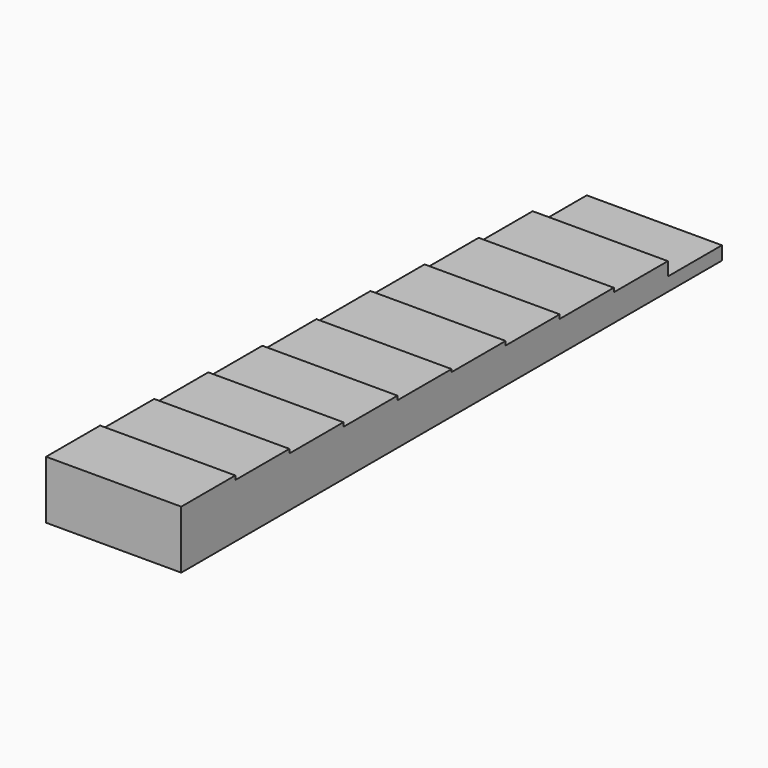
from build123d import *

# Parameters (mm, degrees)
F0_W      = 5
F0_H      = 5
F1_DEPTH  = 1
F2_DEPTH  = 2
F3_DEPTH  = 2.3
F4_DEPTH  = 2.6
F5_DEPTH  = 2.9
F6_DEPTH  = 3.1
F7_DEPTH  = 3.4
F8_DEPTH  = 3.7
F9_DEPTH  = 4
F10_DEPTH = 4.3


with BuildPart() as f1:
    # F0 (on Top) → F1 (new body)
    with BuildSketch(Plane.XY):
        with Locations((-3.713795, 34.692926)):
            Rectangle(F0_W, F0_H)
        with Locations((1.286205, 34.692926)):
            Rectangle(F0_W, F0_H)
    extrude(amount=F1_DEPTH)

    # F0 (on Top) → F2 (join)
    with BuildSketch(Plane.XY):
        with Locations((-3.713795, 29.692926)):
            Rectangle(F0_W, F0_H)
        with Locations((1.286205, 29.692926)):
            Rectangle(F0_W, F0_H)
    extrude(amount=F2_DEPTH)

    # F0 (on Top) → F3 (join)
    with BuildSketch(Plane.XY):
        with Locations((-3.713795, 24.692926)):
            Rectangle(F0_W, F0_H)
        with Locations((1.286205, 24.692926)):
            Rectangle(F0_W, F0_H)
    extrude(amount=F3_DEPTH)

    # F0 (on Top) → F4 (join)
    with BuildSketch(Plane.XY):
        with Locations((1.286205, 19.692926)):
            Rectangle(F0_W, F0_H)
        with Locations((-3.713795, 19.692926)):
            Rectangle(F0_W, F0_H)
    extrude(amount=F4_DEPTH)

    # F0 (on Top) → F5 (join)
    with BuildSketch(Plane.XY):
        with Locations((-3.713795, 14.692926)):
            Rectangle(F0_W, F0_H)
        with Locations((1.286205, 14.692926)):
            Rectangle(F0_W, F0_H)
    extrude(amount=F5_DEPTH)

    # F0 (on Top) → F6 (join)
    with BuildSketch(Plane.XY):
        with Locations((-3.713795, 9.692926)):
            Rectangle(F0_W, F0_H)
        with Locations((1.286205, 9.692926)):
            Rectangle(F0_W, F0_H)
    extrude(amount=F6_DEPTH)

    # F0 (on Top) → F7 (join)
    with BuildSketch(Plane.XY):
        with Locations((-3.713795, 4.692926)):
            Rectangle(F0_W, F0_H)
        with Locations((1.286205, 4.692926)):
            Rectangle(F0_W, F0_H)
    extrude(amount=F7_DEPTH)

    # F0 (on Top) → F8 (join)
    with BuildSketch(Plane.XY):
        with Locations((-3.713795, -0.307074)):
            Rectangle(F0_W, F0_H)
        with Locations((1.286205, -0.307074)):
            Rectangle(F0_W, F0_H)
    extrude(amount=F8_DEPTH)

    # F0 (on Top) → F9 (join)
    with BuildSketch(Plane.XY):
        with Locations((-3.713795, -5.307074)):
            Rectangle(F0_W, F0_H)
        with Locations((1.286205, -5.307074)):
            Rectangle(F0_W, F0_H)
    extrude(amount=F9_DEPTH)

    # F0 (on Top) → F10 (join)
    with BuildSketch(Plane.XY):
        with Locations((-3.713795, -10.307074)):
            Rectangle(F0_W, F0_H)
        with Locations((1.286205, -10.307074)):
            Rectangle(F0_W, F0_H)
    extrude(amount=F10_DEPTH)


solid = f1.part
